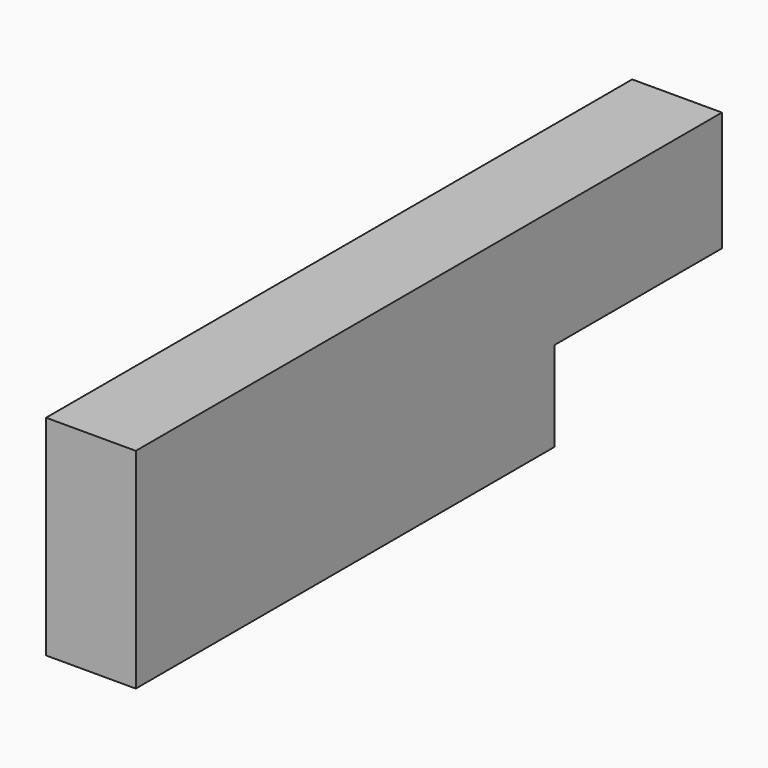
from build123d import *

# Parameters (mm, degrees)
F0_W     = 38.1
F0_H     = 222.25
F1_DEPTH = 88.9
F0_H_2   = 88.9
F2_DEPTH = 50.8


with BuildPart() as f1:
    # F0 (on Top) → F1 (new body)
    with BuildSketch(Plane.XY):
        with Locations((0, -44.45)):
            Rectangle(F0_W, F0_H)
    extrude(amount=-F1_DEPTH)

    # F0 (on Top) → F2 (join)
    with BuildSketch(Plane.XY):
        with Locations((0, 111.125)):
            Rectangle(F0_W, F0_H_2)
    extrude(amount=-F2_DEPTH)


solid = f1.part
